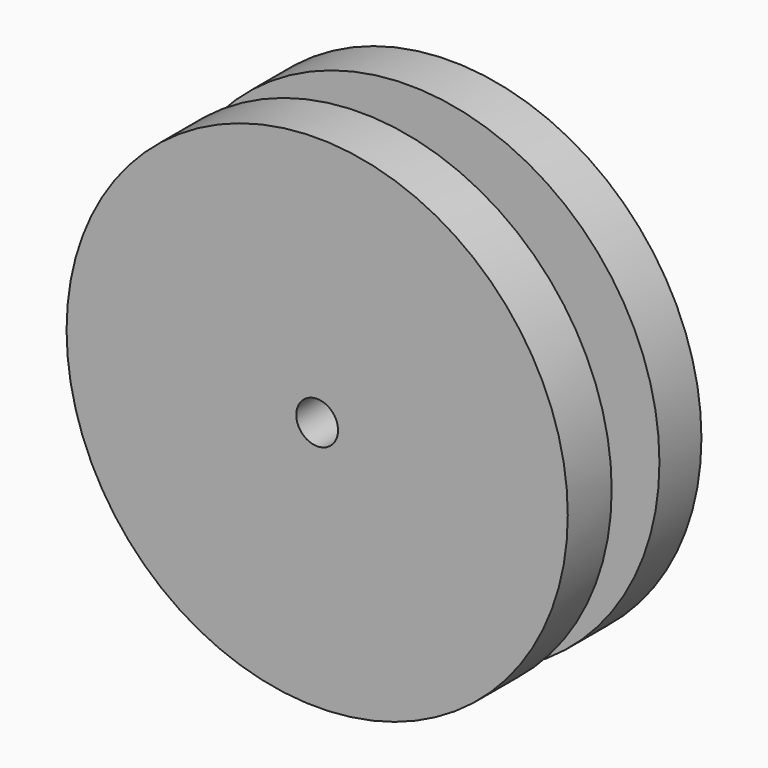
from build123d import *

# Parameters (mm, degrees)
F0_R     = 38.1
F1_DEPTH = 12.7
F2_W     = 20.0255792588
F2_H     = 9.0756523423
F4_R     = 3.175
F5_DEPTH = 25.401


with BuildPart() as f1:
    # F0 (on Front) → F1 (new body, symmetric)
    with BuildSketch(Plane.XZ):
        Circle(F0_R)
    extrude(amount=F1_DEPTH, both=True)

    # F2 (on Top) → F3 (revolve, cut)
    with BuildSketch(Plane.XY):
        with Locations((-37.7547862008, 0.1815122087)):
            Rectangle(F2_W, F2_H)
    revolve(axis=Axis((0, -0.3630269784, 0), (0, -1, 0)), mode=Mode.SUBTRACT)

    # F4 (on face) → F5 (cut, through all)
    with BuildSketch(Plane.XZ.offset(12.7)):
        Circle(F4_R)
    extrude(amount=-F5_DEPTH, mode=Mode.SUBTRACT)


solid = f1.part
